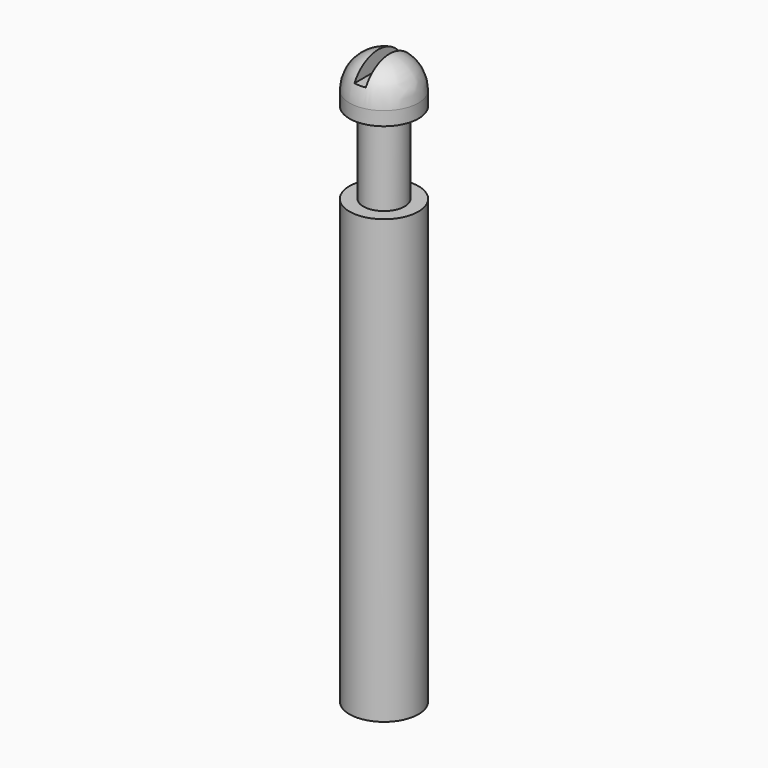
from build123d import *

# Parameters (mm, degrees)
F2_W     = 0.41187
F2_H     = 2.318905
F3_DEPTH = 12.5


with BuildPart() as f1:
    # F0 (on Front) → F1 (revolve)
    with BuildSketch(Plane.XZ):
        with BuildLine():
            Line((-2.5, -1), (-1.5, -1))
            Line((-1.5, -1), (-1.5, -6.928856))
            Line((-1.5, -6.928856), (-2.5, -6.928856))
            Line((-2.5, -6.928856), (-2.5, -39.004903))
            Line((-2.5, -39.004903), (0, -39.004903))
            Line((0, -39.004903), (0, 2.5))
            ThreePointArc((0, 2.5), (-1.767767, 1.767767), (-2.5, 0))
            Line((-2.5, 0), (-2.5, -1))
        make_face()
    revolve(axis=Axis((0, 0, -18.252452), (0, 0, -1)))

    # F2 (on Front) → F3 (cut, symmetric)
    with BuildSketch(Plane.XZ):
        with Locations((-0.205935, 2.348353)):
            Rectangle(F2_W, F2_H)
        with Locations((0.205935, 2.348353)):
            Rectangle(F2_W, F2_H)
    extrude(amount=F3_DEPTH, both=True, mode=Mode.SUBTRACT)


solid = f1.part
